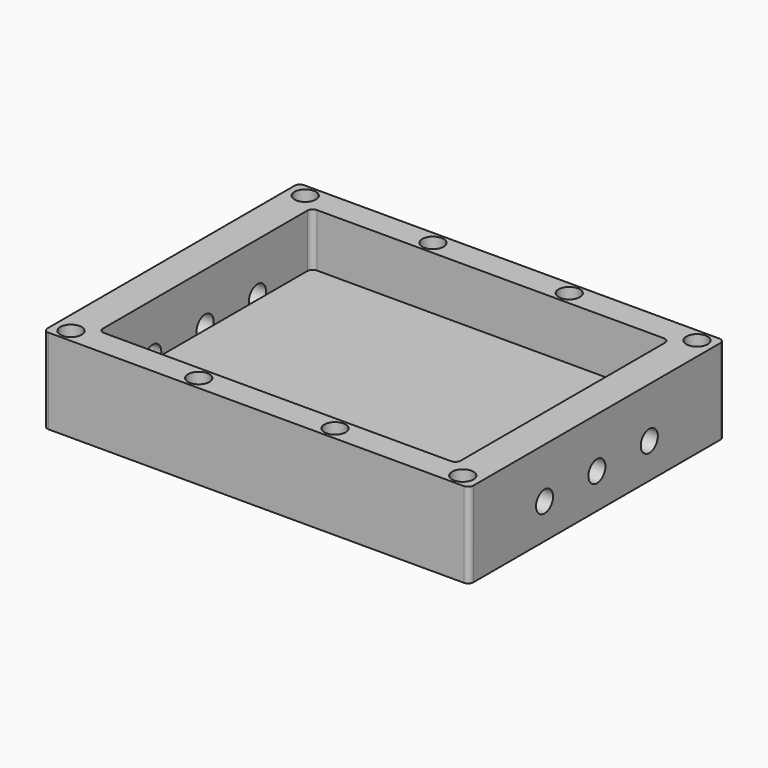
from build123d import *

# Parameters (mm, degrees)
SKETCH_W        = 40
SKETCH_H        = 30
PAD_DEPTH       = 8
SKETCH001_R     = 1
SKETCH001_W     = 33.6
SKETCH001_H     = 25
POCKET_DEPTH    = 5
SKETCH002_R     = 1
POCKET001_DEPTH = 3.2
POCKET002_DEPTH = 3.2
SKETCH003_R     = 1
POCKET003_DEPTH = 2
SKETCH004_R     = 1
POCKET004_DEPTH = 2
FILLET_R        = 0.5
SKETCH005_R     = 1
POCKET005_DEPTH = 3.2


with BuildPart() as part:
    # Sketch (on Sketch) → Pad (new body)
    with BuildSketch(Plane.XY):
        Rectangle(SKETCH_W, SKETCH_H)
    extrude(amount=PAD_DEPTH)

    # Sketch001 (on Face6 of Pad) → Pocket (cut)
    with BuildSketch(Plane.XY.offset(8)):
        with Locations((-18.4, 13.75)):
            Circle(SKETCH001_R)
        with Locations((-6.4, 13.75)):
            Circle(SKETCH001_R)
        with Locations((6.4, 13.75)):
            Circle(SKETCH001_R)
        with Locations((18.4, 13.75)):
            Circle(SKETCH001_R)
        with Locations((-18.4, -13.75)):
            Circle(SKETCH001_R)
        with Locations((-6.4, -13.75)):
            Circle(SKETCH001_R)
        with Locations((6.4, -13.75)):
            Circle(SKETCH001_R)
        with Locations((18.4, -13.75)):
            Circle(SKETCH001_R)
        Rectangle(SKETCH001_W, SKETCH001_H)
    extrude(amount=-POCKET_DEPTH, mode=Mode.SUBTRACT)

    # Sketch002 (on Face2 of Pocket) → Pocket001 (cut)
    with BuildSketch(Plane(origin=(-20, 0, 0), x_dir=(0, -1, 0), z_dir=(-1, 0, 0))):
        with Locations((-6.15, 3.3)):
            Circle(SKETCH002_R)
        with Locations((6.15, 3.3)):
            Circle(SKETCH002_R)
        with Locations((0, 3.3)):
            Circle(SKETCH002_R)
    extrude(amount=-POCKET001_DEPTH, mode=Mode.SUBTRACT)

    # Sketch002 (on Face2 of Pocket) → Pocket002 (cut)
    with BuildSketch(Plane(origin=(-20, 0, 0), x_dir=(0, -1, 0), z_dir=(-1, 0, 0))):
        with Locations((-6.15, 3.3)):
            Circle(SKETCH002_R)
        with Locations((6.15, 3.3)):
            Circle(SKETCH002_R)
        with Locations((0, 3.3)):
            Circle(SKETCH002_R)
    extrude(amount=-POCKET002_DEPTH, mode=Mode.SUBTRACT)

    # Sketch003 → Pocket003 (cut)
    with BuildSketch(Plane.XY.offset(5)):
        with Locations((-12, 10)):
            Circle(SKETCH003_R)
        with Locations((12, 10)):
            Circle(SKETCH003_R)
        with Locations((12, -10)):
            Circle(SKETCH003_R)
        with Locations((-12, -10)):
            Circle(SKETCH003_R)
    extrude(amount=-POCKET003_DEPTH, mode=Mode.SUBTRACT)

    # Sketch004 (on Face4 of Pocket003) → Pocket004 (cut)
    with BuildSketch(Plane(origin=(0, 0, 0), x_dir=(1, 0, 0), z_dir=(0, 0, -1))):
        with Locations((-10, 5)):
            Circle(SKETCH004_R)
        with Locations((0, 5)):
            Circle(SKETCH004_R)
        with Locations((10, 5)):
            Circle(SKETCH004_R)
        with Locations((10, -5)):
            Circle(SKETCH004_R)
        with Locations((0, -5)):
            Circle(SKETCH004_R)
        with Locations((-10, -5)):
            Circle(SKETCH004_R)
    extrude(amount=-POCKET004_DEPTH, mode=Mode.SUBTRACT)

    # Fillet
    fillet_edges = [part.edges().sort_by_distance(p)[0] for p in [
        (20, -15, 4),
        (-16.8, 12.5, 5.5),
        (-20, -15, 4),
        (-20, 15, 4),
        (-16.8, -12.5, 5.5),
        (16.8, 12.5, 5.5),
        (16.8, -12.5, 5.5),
        (20, 15, 4),
    ]]
    fillet(fillet_edges, radius=FILLET_R)

    # Sketch005 (on Face7 of Fillet) → Pocket005 (cut)
    with BuildSketch(Plane.YZ.offset(20)):
        with Locations((-6.15, 3.3)):
            Circle(SKETCH005_R)
        with Locations((6.15, 3.3)):
            Circle(SKETCH005_R)
        with Locations((0, 3.3)):
            Circle(SKETCH005_R)
    extrude(amount=-POCKET005_DEPTH, mode=Mode.SUBTRACT)


solid = part.part
